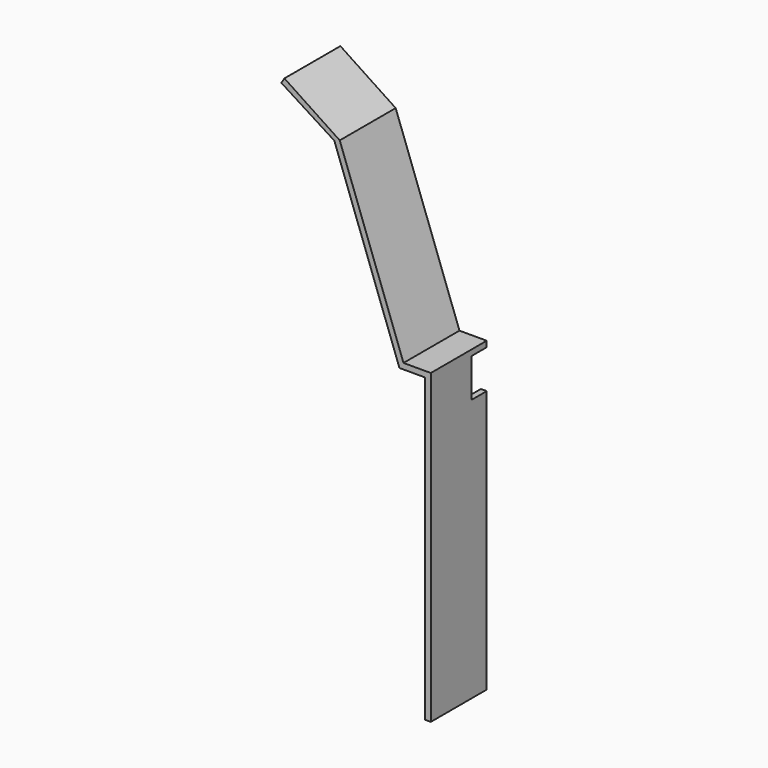
from build123d import *

# Parameters (mm, degrees)
F1_DEPTH = 1.8415
F2_W     = 1.016
F2_H     = 2.032
F3_DEPTH = 25.4


with BuildPart() as f1:
    # F0 (on Front) → F1 (new body, symmetric)
    with BuildSketch(Plane.XZ):
        Polygon((0, 0), (0, -15.875), (0.3048, -15.875), (0.3048, 0), (0.3048, 0.3048), (-1.131116, 0.3048), (-4.489804, 9.532717), (-7.403488, 11.460087), (-7.569124, 11.199027), (-4.777688, 9.427936), (-1.3462, 0), align=None)
    extrude(amount=F1_DEPTH, both=True)

    # F2 (on face) → F3 (cut)
    with BuildSketch(Plane(origin=(0, 0, 0), x_dir=(0, -1, 0), z_dir=(-1, 0, 0))):
        with Locations((-1.3335, -1.016)):
            Rectangle(F2_W, F2_H)
    extrude(amount=-F3_DEPTH, mode=Mode.SUBTRACT)


solid = f1.part
